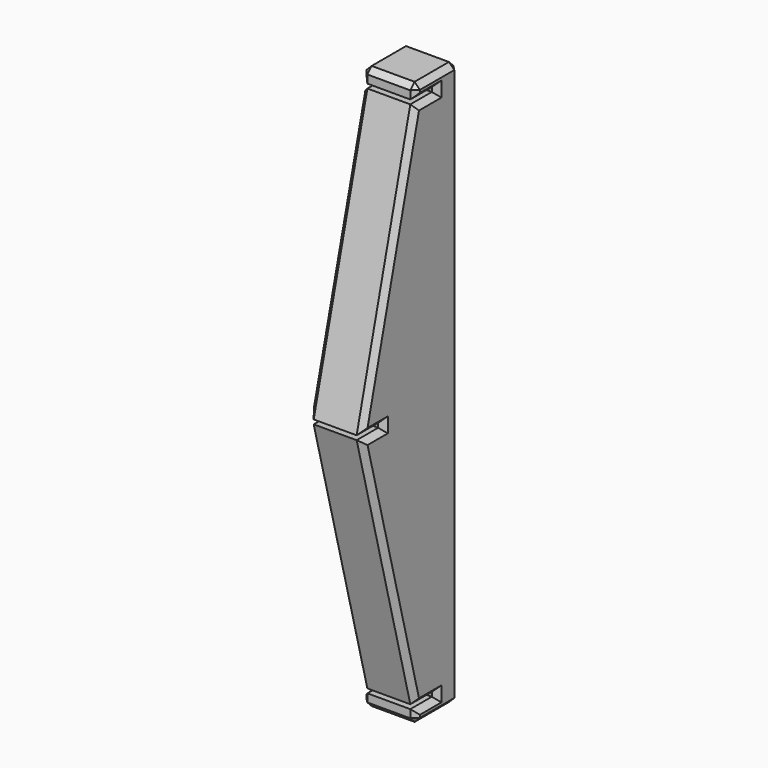
from build123d import *

# Parameters (mm, degrees)
PAD005_DEPTH            = 20
CHAMFER_SIZE            = 2
BODY003_ROLL_ANGLE      = 90
BODY003_PLACEMENT_ANGLE = 90


with BuildPart() as sideholder1:
    # Sketch006 → Pad005 (new body)
    with BuildSketch(Plane.XY):
        Polygon((0, -105), (20, -105), (20, -100), (10, -100), (10, -98.4), (20, -98.4), (45, -1.6), (35, -1.6), (35, 0), (45, 0), (20, 98.4), (10, 98.4), (10, 100), (20, 100), (20, 105), (0, 105), align=None)
    extrude(amount=PAD005_DEPTH)

    # Chamfer
    chamfer_edges = [sideholder1.edges().sort_by_distance(p)[0] for p in [
        (10, -105, 20),
        (20, -102.5, 20),
        (15, -100, 20),
        (10, -99.2, 20),
        (15, -98.4, 20),
        (32.5, -50, 20),
        (40, -1.6, 20),
        (35, -0.8, 20),
        (40, 0, 20),
        (32.5, 49.2, 20),
        (15, 98.4, 20),
        (10, 99.2, 20),
        (15, 100, 20),
        (20, 102.5, 20),
        (10, 105, 20),
        (0, 0, 20),
        (10, -105, 0),
        (20, -102.5, 0),
        (15, -100, 0),
        (10, -99.2, 0),
        (15, -98.4, 0),
        (32.5, -50, 0),
        (40, -1.6, 0),
        (35, -0.8, 0),
        (40, 0, 0),
        (32.5, 49.2, 0),
        (15, 98.4, 0),
        (10, 99.2, 0),
        (15, 100, 0),
        (20, 102.5, 0),
        (10, 105, 0),
        (0, 0, 0),
        (0, 105, 10),
        (0, -105, 10),
        (20, 105, 10),
        (20, -105, 10),
    ]]
    chamfer(chamfer_edges, length=CHAMFER_SIZE)


with BuildPart() as sideholder1_1:
    # Body003 roll: moved
    add(sideholder1.part.rotate(Axis((0, 0, 0), (1, 0, 0)), BODY003_ROLL_ANGLE))


with BuildPart() as sideholder1_2:
    # Body003 placement: moved
    add(sideholder1_1.part.moved(Location((120, -185, 0))).rotate(Axis((120, -185, 0), (0, 0, 1)), BODY003_PLACEMENT_ANGLE))


with BuildPart() as sideholder4_mirror:
    # mirror002: instance of SideHolder1
    add(sideholder1_2.part.mirror(Plane(origin=(0, 0, 0), x_dir=(1, 0, 0), z_dir=(0, 1, 0))))


with BuildPart() as sideholder3_mirror:
    # mirror003: instance of SideHolder4 (mirror)
    add(sideholder4_mirror.part.mirror(Plane(origin=(0, 0, 0), x_dir=(0, -1, 0), z_dir=(1, 0, 0))))


solid = sideholder3_mirror.part
